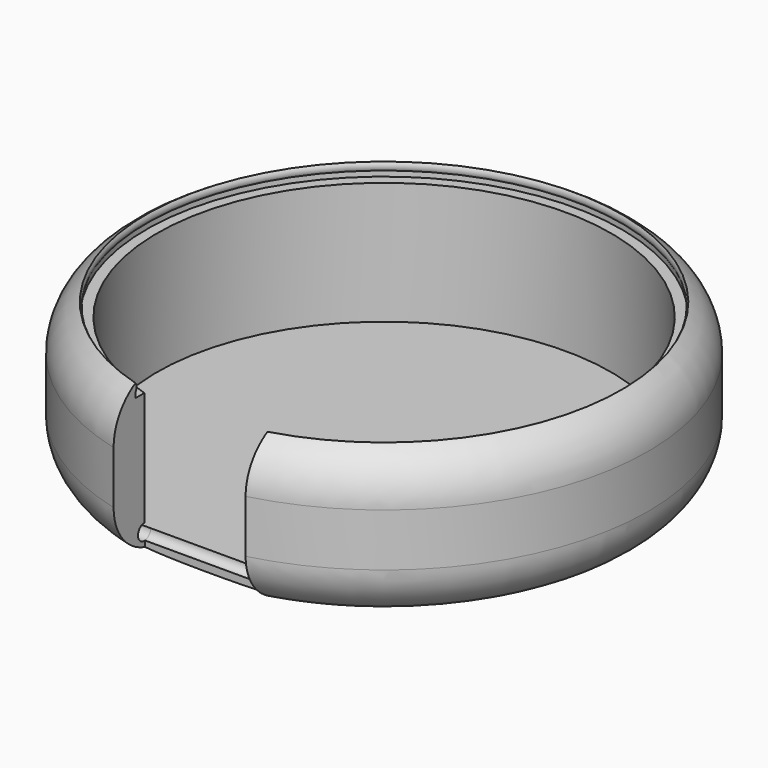
from build123d import *

# Parameters (mm, degrees)
F0_R      = 50
F1_DEPTH  = 30
F2_R      = 10
F3_R      = 43
F4_DEPTH  = 27
F6_W      = 12.5
F6_H      = 30
F7_DEPTH  = 9
F9_R      = 45
F10_DEPTH = 3.85
F12_R     = 1.5
F13_DEPTH = 4
F14_DEPTH = 29
F18_DEPTH = 9


with BuildPart() as f1:
    # F0 (on Top) → F1 (new body)
    with BuildSketch(Plane.XY):
        Circle(F0_R)
    extrude(amount=F1_DEPTH)

    # F2
    f2_edges = [f1.edges().sort_by_distance(p)[0] for p in [
        (-50, 0, 30),
        (-50, 0, 0),
    ]]
    fillet(f2_edges, radius=F2_R)

    # F3 (on face) → F4 (cut)
    with BuildSketch(Plane.XY.offset(30)):
        Circle(F3_R)
    extrude(amount=-F4_DEPTH, mode=Mode.SUBTRACT)

    # F6 (on offset) → F7 (cut)
    with BuildSketch(Plane.XZ.offset(50)):
        with Locations((-6.25, 15)):
            Rectangle(F6_W, F6_H)
        with Locations((6.25, 15)):
            Rectangle(F6_W, F6_H)
    extrude(amount=-F7_DEPTH, mode=Mode.SUBTRACT)

    # F9 (on offset) → F10 (cut)
    with BuildSketch(Plane.XY.offset(30)):
        Circle(F9_R)
    extrude(amount=-F10_DEPTH, mode=Mode.SUBTRACT)

    # F12 (on offset) → F13 (cut)
    with BuildSketch(Plane.YZ.offset(-12.5)):
        with Locations((-41.1430431543, 3)):
            Circle(F12_R)
    extrude(amount=-F13_DEPTH, mode=Mode.SUBTRACT)

    # F12 (on offset) → F14 (cut)
    with BuildSketch(Plane.YZ.offset(-12.5)):
        with Locations((-41.1430431543, 3)):
            Circle(F12_R)
    extrude(amount=F14_DEPTH, mode=Mode.SUBTRACT)

    # F15 (on offset) → F17 (revolve)
    with BuildSketch(Plane.YZ.offset(-12.5)):
        with BuildLine():
            Line((-43.2290411645, 28.6602540378), (-43.2290411645, 27.1602540378))
            ThreePointArc((-43.2290411645, 27.1602540378), (-42.9790411645, 27.9102540378), (-43.2290411645, 28.6602540378))
        make_face()
    revolve(axis=Axis((0, 0, 24.574), (0, 0, 1)))

    # F6 (on offset) → F18 (cut)
    with BuildSketch(Plane.XZ.offset(50)):
        with Locations((-6.25, 15)):
            Rectangle(F6_W, F6_H)
        with Locations((6.25, 15)):
            Rectangle(F6_W, F6_H)
    extrude(amount=-F18_DEPTH, mode=Mode.SUBTRACT)


solid = f1.part
